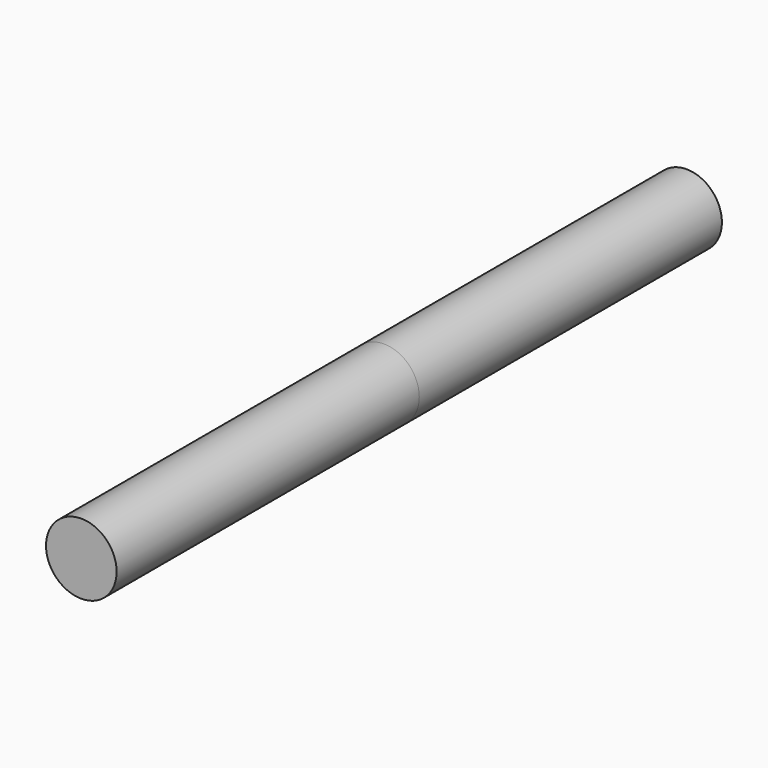
from build123d import *

# Parameters (mm, degrees)
F0_R          = 1.4
F1_DEPTH      = 15
F1_DEPTH_BACK = 15


with BuildPart() as f1:
    # F0 (on Front) → F1 (new body, two sides)
    with BuildSketch(Plane.XZ) as f1_sk:
        with Locations((0, 1.4)):
            Circle(F0_R)
    extrude(amount=-F1_DEPTH)
    extrude(f1_sk.sketch, amount=F1_DEPTH_BACK)


solid = f1.part
